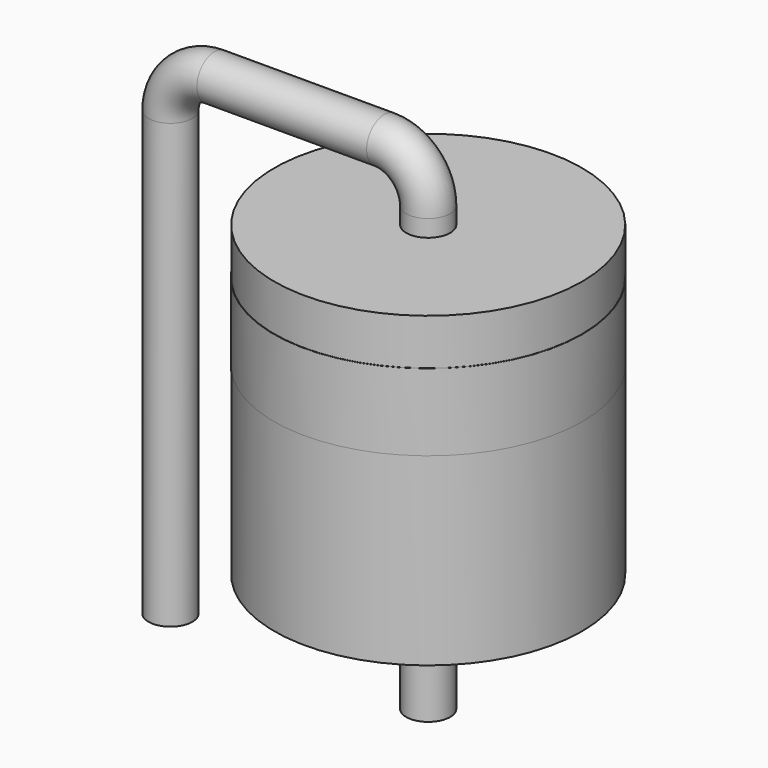
from build123d import *

# Parameters (mm, degrees)
SKETCH001_R = 0.65
SKETCH002_W = 4.55
SKETCH002_H = 9.1
SKETCH003_W = 4.56
SKETCH003_H = 2.275


with BuildPart() as sweep_body:
    # Sweep: sweep along a path in Sketch
    with BuildLine(Plane.XZ) as sweep_path:
        Line((0, -3), (0, 10.1))
        ThreePointArc((0, 10.1), (0.380761, 11.019239), (1.3, 11.4))
        Line((1.3, 11.4), (6.32, 11.4))
        ThreePointArc((6.32, 11.4), (7.239239, 11.019239), (7.62, 10.1))
        Line((7.62, 10.1), (7.62, -3))
    # Sketch001 → Sweep (sweep)
    with BuildSketch(Plane.XY):
        Circle(SKETCH001_R)
    sweep(path=sweep_path.line)


with BuildPart() as revolution:
    # Sketch002 → Revolution (revolve)
    with BuildSketch(Plane.XZ):
        with Locations((9.895, 5.05)):
            Rectangle(SKETCH002_W, SKETCH002_H)
    revolve(axis=Axis((7.62, 0, 0.5), (0, 0, 1)))


with BuildPart() as revolution001:
    # Sketch003 → Revolution001 (revolve)
    with BuildSketch(Plane.XZ):
        with Locations((9.9, 7.0975)):
            Rectangle(SKETCH003_W, SKETCH003_H)
    revolve(axis=Axis((7.62, 0, 5.96), (0, 0, 1)))


solid = Compound([sweep_body.part, revolution.part, revolution001.part])
